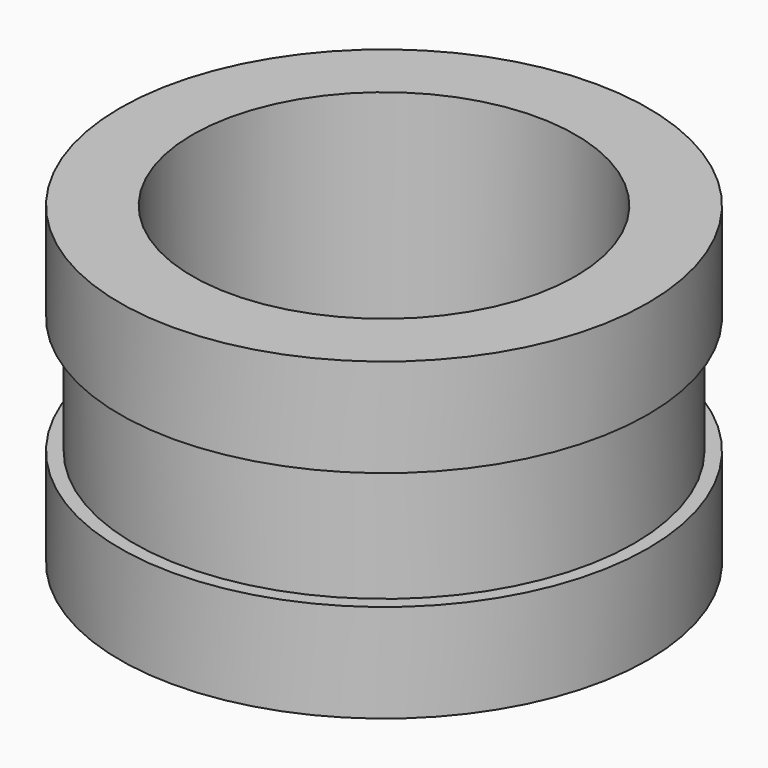
from build123d import *

# Parameters (mm, degrees)
F0_R     = 13.43769
F0_R_2   = 9.754075
F1_DEPTH = 8
F2_R     = 21.650202
F2_R_2   = 12.73731
F3_DEPTH = 3


with BuildPart() as f1:
    # F0 (on Top) → F1 (new body, symmetric)
    with BuildSketch(Plane.XY):
        Circle(F0_R)
        Circle(F0_R_2, mode=Mode.SUBTRACT)
    extrude(amount=F1_DEPTH, both=True)

    # F2 (on Top) → F3 (cut, symmetric)
    with BuildSketch(Plane.XY):
        Circle(F2_R)
        Circle(F2_R_2, mode=Mode.SUBTRACT)
    extrude(amount=F3_DEPTH, both=True, mode=Mode.SUBTRACT)


solid = f1.part
